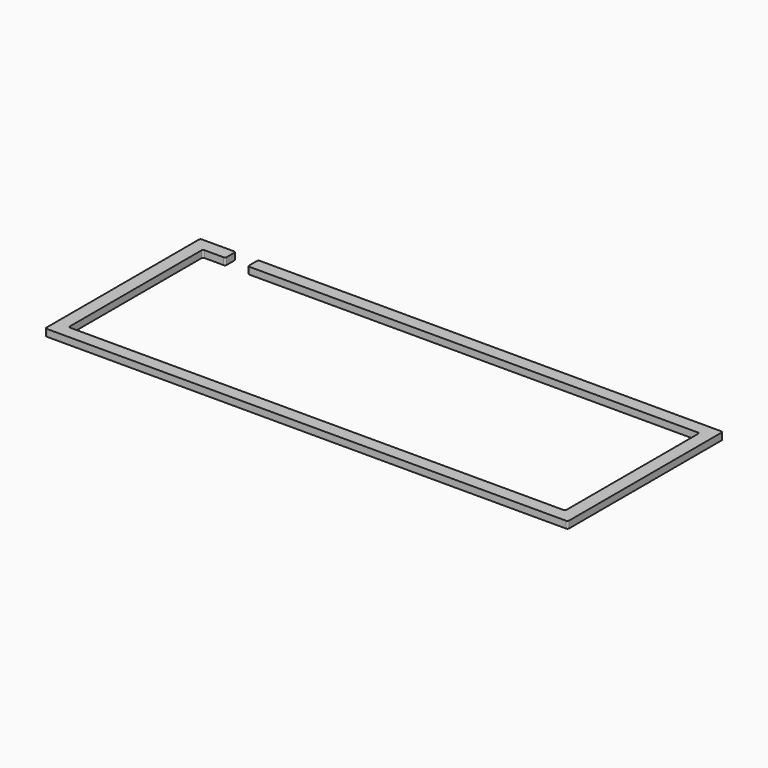
from build123d import *

# Parameters (mm, degrees)
SKETCH_W     = 302
SKETCH_H     = 112
SKETCH_W_2   = 287
SKETCH_H_2   = 97
PAD_DEPTH    = 4
SKETCH001_W  = 13
SKETCH001_H  = 7.5
POCKET_DEPTH = 4
FILLET_R     = 1
FILLET001_R  = 1
FILLET002_R  = 1
FILLET003_R  = 1
FILLET004_R  = 1
FILLET005_R  = 1
FILLET006_R  = 1
FILLET007_R  = 1
FILLET008_R  = 1
FILLET009_R  = 1
FILLET010_R  = 1
FILLET011_R  = 1


with BuildPart() as part:
    # Sketch → Pad (new body)
    with BuildSketch(Plane.XY):
        Rectangle(SKETCH_W, SKETCH_H)
        Rectangle(SKETCH_W_2, SKETCH_H_2, mode=Mode.SUBTRACT)
    extrude(amount=PAD_DEPTH)

    # Sketch001 (on Face10 of Pad) → Pocket (cut)
    with BuildSketch(Plane.XY.offset(4)):
        with Locations((-124, 52.25)):
            Rectangle(SKETCH001_W, SKETCH001_H)
    extrude(amount=-POCKET_DEPTH, mode=Mode.SUBTRACT)

    # Fillet
    fillet_edges = [part.edges().sort_by_distance(p)[0] for p in [
        (-130.5, 48.5, 2),
    ]]
    fillet(fillet_edges, radius=FILLET_R)

    # Fillet001
    fillet001_edges = [part.edges().sort_by_distance(p)[0] for p in [
        (-143.5, 48.5, 2),
    ]]
    fillet(fillet001_edges, radius=FILLET001_R)

    # Fillet002
    fillet002_edges = [part.edges().sort_by_distance(p)[0] for p in [
        (-117.5, 48.5, 2),
    ]]
    fillet(fillet002_edges, radius=FILLET002_R)

    # Fillet003
    fillet003_edges = [part.edges().sort_by_distance(p)[0] for p in [
        (-151, -56, 2),
    ]]
    fillet(fillet003_edges, radius=FILLET003_R)

    # Fillet004
    fillet004_edges = [part.edges().sort_by_distance(p)[0] for p in [
        (151, -56, 2),
    ]]
    fillet(fillet004_edges, radius=FILLET004_R)

    # Fillet005
    fillet005_edges = [part.edges().sort_by_distance(p)[0] for p in [
        (151, 56, 2),
    ]]
    fillet(fillet005_edges, radius=FILLET005_R)

    # Fillet006
    fillet006_edges = [part.edges().sort_by_distance(p)[0] for p in [
        (-117.5, 56, 2),
    ]]
    fillet(fillet006_edges, radius=FILLET006_R)

    # Fillet007
    fillet007_edges = [part.edges().sort_by_distance(p)[0] for p in [
        (-151, 56, 2),
    ]]
    fillet(fillet007_edges, radius=FILLET007_R)

    # Fillet008
    fillet008_edges = [part.edges().sort_by_distance(p)[0] for p in [
        (143.5, -48.5, 2),
    ]]
    fillet(fillet008_edges, radius=FILLET008_R)

    # Fillet009
    fillet009_edges = [part.edges().sort_by_distance(p)[0] for p in [
        (-143.5, -48.5, 2),
    ]]
    fillet(fillet009_edges, radius=FILLET009_R)

    # Fillet010
    fillet010_edges = [part.edges().sort_by_distance(p)[0] for p in [
        (143.5, 48.5, 2),
    ]]
    fillet(fillet010_edges, radius=FILLET010_R)

    # Fillet011
    fillet011_edges = [part.edges().sort_by_distance(p)[0] for p in [
        (-130.5, 56, 2),
    ]]
    fillet(fillet011_edges, radius=FILLET011_R)


solid = part.part
